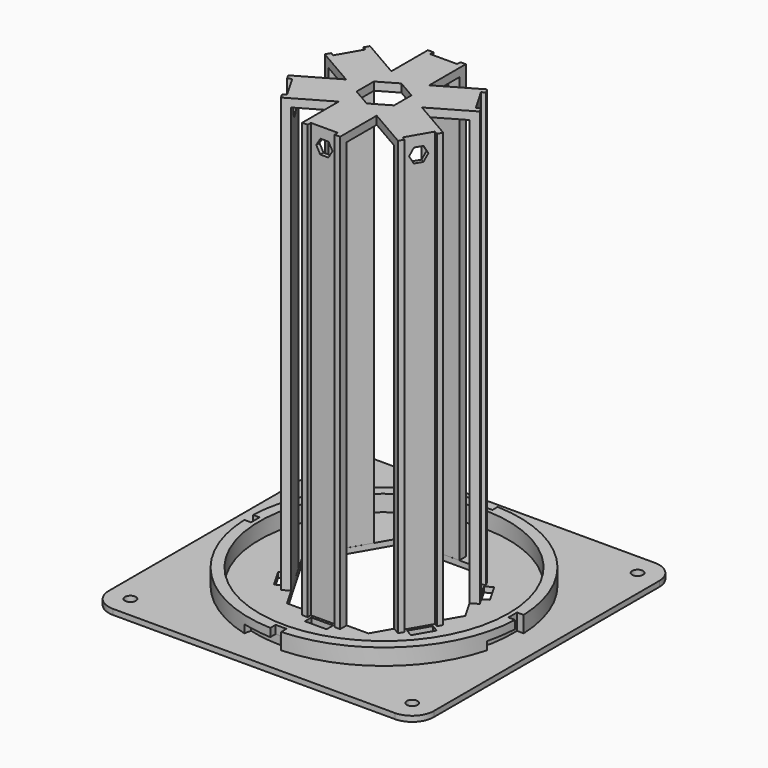
from build123d import *

# Parameters (mm, degrees)
PAD009_DEPTH          = 2
SKETCH015_R           = 2
POCKET005_DEPTH       = 2
POCKET006_DEPTH       = 2
PAD010_DEPTH          = 160
POLARPATTERN001_COUNT = 6
SKETCH018_W           = 8
SKETCH018_H           = 3
POCKET007_DEPTH       = 2
POLARPATTERN002_COUNT = 6
SKETCH019_W           = 14
SKETCH019_H           = 27
PAD011_DEPTH          = 3
POLARPATTERN003_COUNT = 6
POCKET008_DEPTH       = 5
POLARPATTERN004_COUNT = 6
SKETCH021_R           = 50
SKETCH021_R_2         = 46
PAD012_DEPTH          = 6
SKETCH022_W           = 4
SKETCH022_H           = 3
POCKET009_DEPTH       = 6
POLARPATTERN005_COUNT = 4
SKETCH023_W           = 2.5
SKETCH023_H           = 3
POLARPATTERN006_COUNT = 4
POCKET010_DEPTH       = 5


with BuildPart() as part:
    # Sketch014 → Pad009 (new body)
    with BuildSketch(Plane.XY):
        with BuildLine():
            Line((-52, -60), (52, -60))
            ThreePointArc((52, -60), (57.6568542495, -57.6568542495), (60, -52))
            Line((60, -52), (60, 52))
            ThreePointArc((60, 52), (57.6568542495, 57.6568542495), (52, 60))
            Line((52, 60), (-52, 60))
            ThreePointArc((-52, 60), (-57.6568542495, 57.6568542495), (-60, 52))
            Line((-60, 52), (-60, -52))
            ThreePointArc((-60, -52), (-57.6568542495, -57.6568542495), (-52, -60))
        make_face()
    extrude(amount=PAD009_DEPTH)

    # Sketch015 (on Face10 of Pad009) → Pocket005 (cut)
    with BuildSketch(Plane.XY.offset(2)):
        with Locations((-52, 52)):
            Circle(SKETCH015_R)
        with Locations((52, 52)):
            Circle(SKETCH015_R)
        with Locations((52, -52)):
            Circle(SKETCH015_R)
        with Locations((-52, -52)):
            Circle(SKETCH015_R)
    extrude(amount=-POCKET005_DEPTH, mode=Mode.SUBTRACT)

    # Sketch016 (on Face5 of Pocket005) → Pocket006 (cut)
    with BuildSketch(Plane.XY.offset(2)):
        Polygon((30, 0), (15, 25.9807621135), (-15, 25.9807621135), (-30, 0), (-15, -25.9807621135), (15, -25.9807621135), align=None)
    extrude(amount=-POCKET006_DEPTH, mode=Mode.SUBTRACT)

    # Sketch017 (on Face5 of Pocket006) → Pad010 (join)
    with BuildSketch(Plane.XY.offset(2)):
        Polygon((-7, 26), (7, 26), (7, 29), (5, 29), (5, 27.5), (-5, 27.5), (-5, 29), (-7, 29), align=None)
    pad010 = extrude(amount=PAD010_DEPTH)

    # PolarPattern001: Pad010 ×6 about axis
    polarpattern001_axis = Axis((0, 0, 2), (0, 0, 1))
    for i in range(1, POLARPATTERN001_COUNT):
        add(pad010.rotate(polarpattern001_axis, i * 360 / POLARPATTERN001_COUNT))

    # Sketch018 (on Face5 of PolarPattern001) → Pocket007 (cut)
    with BuildSketch(Plane.XY.offset(2)):
        with Locations((0, 30)):
            Rectangle(SKETCH018_W, SKETCH018_H)
    pocket007 = extrude(amount=-POCKET007_DEPTH, mode=Mode.SUBTRACT)

    # PolarPattern002: Pocket007 ×6 about axis
    polarpattern002_axis = Axis((0, 0, 2), (0, 0, 1))
    for i in range(1, POLARPATTERN002_COUNT):
        add(pocket007.rotate(polarpattern002_axis, i * 360 / POLARPATTERN002_COUNT), mode=Mode.SUBTRACT)

    # Sketch019 (on Face98 of PolarPattern002) → Pad011 (join)
    with BuildSketch(Plane.XY.offset(162)):
        with Locations((0, 13.5)):
            Rectangle(SKETCH019_W, SKETCH019_H)
    pad011 = extrude(amount=-PAD011_DEPTH)

    # PolarPattern003: Pad011 ×6 about axis
    polarpattern003_axis = Axis((0, 0, 162), (0, 0, 1))
    for i in range(1, POLARPATTERN003_COUNT):
        add(pad011.rotate(polarpattern003_axis, i * 360 / POLARPATTERN003_COUNT))

    # Sketch020 (on Face71 of PolarPattern003) → Pocket008 (cut)
    with BuildSketch(Plane(origin=(23.8156986041, 13.75, 0), x_dir=(-0.5, 0.8660254038, 0), z_dir=(0.8660254038, 0.5, 0))):
        Polygon((2.9997494237, 155.3827539752), (1.5334536671, 158), (-1.4662957566, 158.0387736377), (-2.9997494237, 155.4603012506), (-1.5334536671, 152.8430552259), (1.4662957566, 152.8042815882), align=None)
    pocket008 = extrude(amount=-POCKET008_DEPTH, mode=Mode.SUBTRACT)

    # PolarPattern004: Pocket008 ×6 about axis
    polarpattern004_axis = Axis((0, 0, 0), (0, 0, 1))
    for i in range(1, POLARPATTERN004_COUNT):
        add(pocket008.rotate(polarpattern004_axis, i * 360 / POLARPATTERN004_COUNT), mode=Mode.SUBTRACT)

    # Sketch021 (on Face5 of PolarPattern004) → Pad012 (join)
    with BuildSketch(Plane.XY.offset(2)):
        Circle(SKETCH021_R)
        Circle(SKETCH021_R_2, mode=Mode.SUBTRACT)
    extrude(amount=PAD012_DEPTH)

    # Sketch022 (on Face47 of Pad012) → Pocket009 (cut)
    with BuildSketch(Plane.XY.offset(8)):
        with Locations((0, -49)):
            Rectangle(SKETCH022_W, SKETCH022_H)
    pocket009 = extrude(amount=-POCKET009_DEPTH, mode=Mode.SUBTRACT)

    # PolarPattern005: Pocket009 ×4 about axis
    polarpattern005_axis = Axis((0, 0, 8), (0, 0, 1))
    for i in range(1, POLARPATTERN005_COUNT):
        add(pocket009.rotate(polarpattern005_axis, i * 360 / POLARPATTERN005_COUNT), mode=Mode.SUBTRACT)

    # SubtractivePipe: sweep along a path in Sketch024
    with BuildLine(Plane.XY.offset(2)) as subtractivepipe_path:
        ThreePointArc((-12.940932525, -48.2962966011), (-6.5262994853, -49.5722444018), (0, -50))
    # Sketch023 (on DatumPlane) → SubtractivePipe (sweep, cut)
    with BuildSketch(Plane.YZ.offset(-2)):
        with Locations((-48.7099839872, 3.5)):
            Rectangle(SKETCH023_W, SKETCH023_H)
    subtractivepipe = sweep(path=subtractivepipe_path.line, mode=Mode.SUBTRACT)

    # PolarPattern006: SubtractivePipe ×4 about axis
    polarpattern006_axis = Axis((0, 0, 0), (0, 0, 1))
    for i in range(1, POLARPATTERN006_COUNT):
        add(subtractivepipe.rotate(polarpattern006_axis, i * 360 / POLARPATTERN006_COUNT), mode=Mode.SUBTRACT)

    # Sketch025 (on Face123 of PolarPattern006) → Pocket010 (cut)
    with BuildSketch(Plane.XY.offset(162)):
        Polygon((6.9282031151, 4.0000001994), (-2.303e-07, 8), (-6.9282033454, 3.9999998006), (-6.9282031151, -4.0000001994), (2.303e-07, -8), (6.9282033454, -3.9999998006), align=None)
    extrude(amount=-POCKET010_DEPTH, mode=Mode.SUBTRACT)


with BuildPart() as part_1:
    # Body002 placement: moved
    add(part.part.moved(Location((0, 0, 61.6))))


solid = part_1.part
